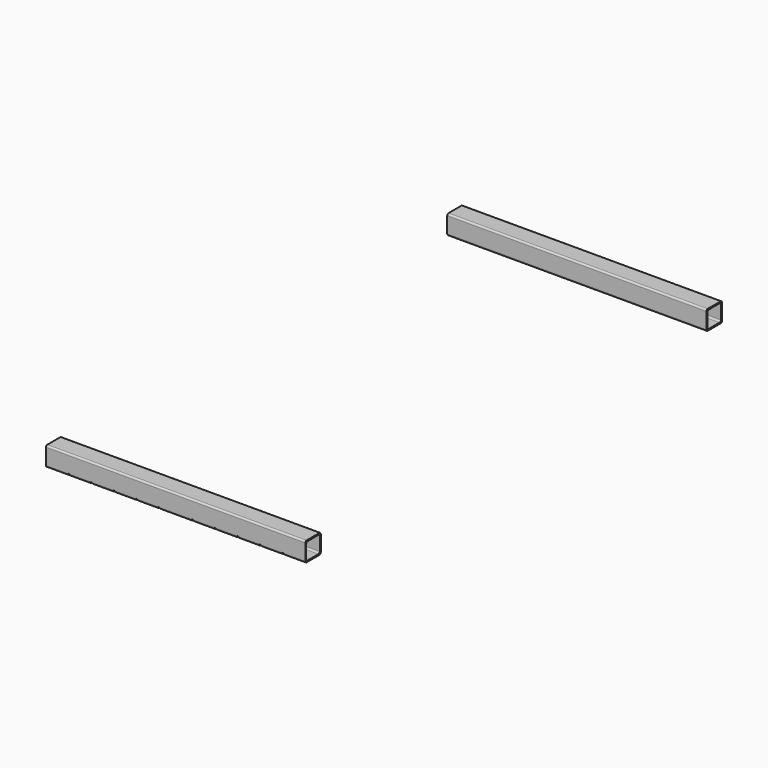
from build123d import *

# Parameters (mm, degrees)
F1_DEPTH = 1020.7625
F3_R     = 4.7625
F4_DEPTH = 12.7


with BuildPart() as f1:
    # F0 (on Right) → F1 (new body)
    with BuildSketch(Plane.YZ):
        with BuildLine():
            Line((-38.1, 1136.65), (-38.1, 1073.15))
            ThreePointArc((-38.1, 1073.15), (-36.2401280605, 1068.6598719395), (-31.75, 1066.8))
            Line((-31.75, 1066.8), (31.75, 1066.8))
            ThreePointArc((31.75, 1066.8), (36.2401280605, 1068.6598719395), (38.1, 1073.15))
            Line((38.1, 1073.15), (38.1, 1136.65))
            ThreePointArc((38.1, 1136.65), (36.2401280605, 1141.1401280605), (31.75, 1143))
            Line((31.75, 1143), (-31.75, 1143))
            ThreePointArc((-31.75, 1143), (-36.2401280605, 1141.1401280605), (-38.1, 1136.65))
        make_face()
        with BuildLine():
            ThreePointArc((-26.9748, 1071.5752), (-31.4649280605, 1073.4350719395), (-33.3248, 1077.9252))
            Line((-33.3248, 1077.9252), (-33.3248, 1131.8748))
            ThreePointArc((-33.3248, 1131.8748), (-31.4649280605, 1136.3649280605), (-26.9748, 1138.2248))
            Line((-26.9748, 1138.2248), (26.9748, 1138.2248))
            ThreePointArc((26.9748, 1138.2248), (31.4649280605, 1136.3649280605), (33.3248, 1131.8748))
            Line((33.3248, 1131.8748), (33.3248, 1077.9252))
            ThreePointArc((33.3248, 1077.9252), (31.4649280605, 1073.4350719395), (26.9748, 1071.5752))
            Line((26.9748, 1071.5752), (-26.9748, 1071.5752))
        make_face(mode=Mode.SUBTRACT)
    extrude(amount=F1_DEPTH)

    # F3 (on 3pt) → F4 (cut, symmetric)
    with BuildSketch(Plane(origin=(0, 517.525, 517.525), x_dir=(-1, 0, 0), z_dir=(0, 0.7071067812, 0.7071067812))):
        with Locations((-88.9, 781.3147306442)):
            Circle(F3_R)
        with Locations((-177.8, 781.3147306442)):
            Circle(F3_R)
        with Locations((-266.7, 781.3147306442)):
            Circle(F3_R)
        with Locations((-355.6, 781.3147306442)):
            Circle(F3_R)
        with Locations((-444.5, 781.3147306442)):
            Circle(F3_R)
        with Locations((-576.2625, 781.3147306442)):
            Circle(F3_R)
        with Locations((-665.1625, 781.3147306442)):
            Circle(F3_R)
        with Locations((-754.0625, 781.3147306442)):
            Circle(F3_R)
        with Locations((-842.9625, 781.3147306442)):
            Circle(F3_R)
        with Locations((-931.8625, 781.3147306442)):
            Circle(F3_R)
    extrude(amount=F4_DEPTH, both=True, mode=Mode.SUBTRACT)


with BuildPart() as f6_1:
    # F6: instance of F1
    add(f1.part.mirror(Plane.XZ.offset(-987.425)))


solid = Compound([f1.part, f6_1.part])
